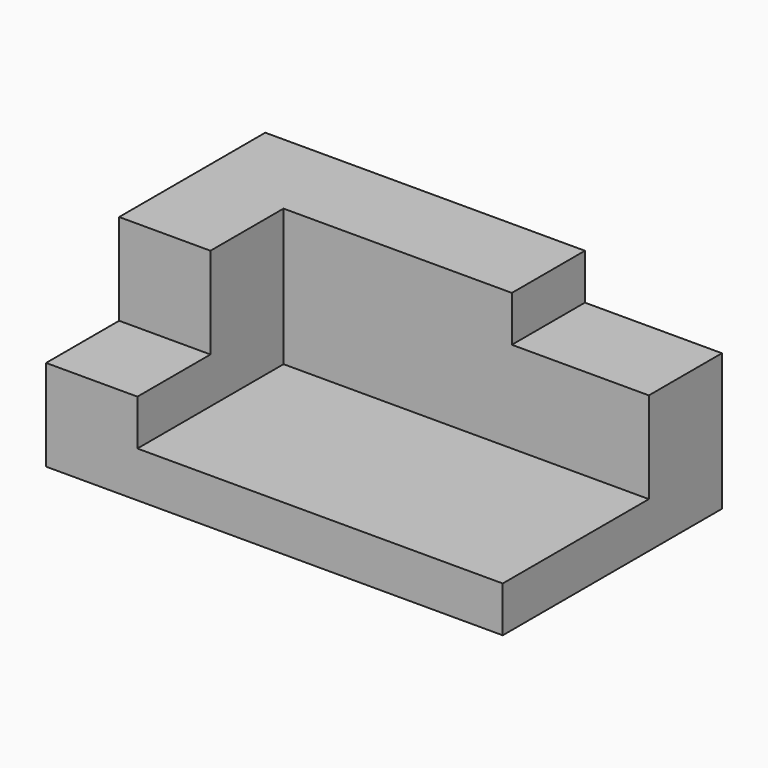
from build123d import *

# Parameters (mm, degrees)
F0_W     = 100
F0_H     = 60
F1_DEPTH = 40
F2_W     = 80
F2_H     = 40
F3_DEPTH = 30
F4_W     = 30
F4_H     = 10
F5_DEPTH = 20.001
F6_W     = 20
F6_H     = 20
F7_DEPTH = 20.001


with BuildPart() as f1:
    # F0 (on Top) → F1 (new body)
    with BuildSketch(Plane.XY):
        Rectangle(F0_W, F0_H)
    extrude(amount=F1_DEPTH)

    # F2 (on face) → F3 (cut)
    with BuildSketch(Plane.XY.offset(40)):
        with Locations((10, -10)):
            Rectangle(F2_W, F2_H)
    extrude(amount=-F3_DEPTH, mode=Mode.SUBTRACT)

    # F4 (on face) → F5 (cut, through all)
    with BuildSketch(Plane.XZ.offset(-10)):
        with Locations((35, 35)):
            Rectangle(F4_W, F4_H)
    extrude(amount=-F5_DEPTH, mode=Mode.SUBTRACT)

    # F6 (on face) → F7 (cut, through all)
    with BuildSketch(Plane.YZ.offset(-30)):
        with Locations((-20, 30)):
            Rectangle(F6_W, F6_H)
    extrude(amount=-F7_DEPTH, mode=Mode.SUBTRACT)


solid = f1.part
